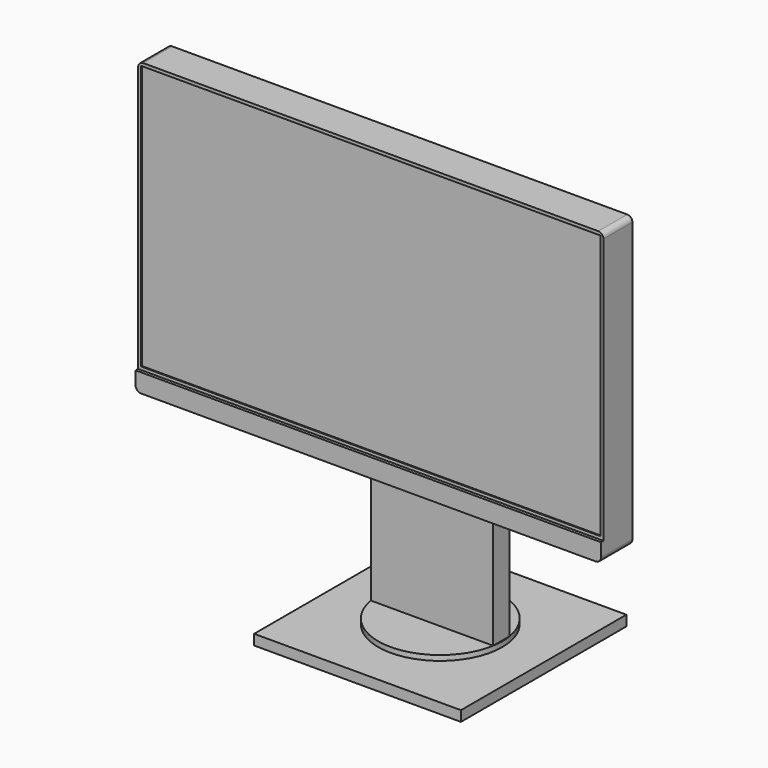
from build123d import *

# Parameters (mm, degrees)
F0_W      = 200
F0_H      = 200
F1_DEPTH  = 10
F2_R      = 60
F3_DEPTH  = 5
F4_W      = 118.321595662
F4_H      = 20
F5_DEPTH  = 320
F6_W      = 70
F6_H      = 30
F7_DEPTH  = 35
F9_DEPTH  = 4
F11_DEPTH = 35
F8_W      = 70
F8_H      = 30
F12_DEPTH = 16
F14_DEPTH = 3
F15_W     = 444
F15_H     = 256
F16_DEPTH = 1


with BuildPart() as f1:
    # F0 (on Top) → F1 (new body)
    with BuildSketch(Plane.XY):
        Rectangle(F0_W, F0_H)
    extrude(amount=F1_DEPTH)

    # F2 (on face) → F3 (join)
    with BuildSketch(Plane.XY.offset(10)):
        Circle(F2_R)
    extrude(amount=F3_DEPTH)

    # F4 (on face) → F5 (join)
    with BuildSketch(Plane.XY.offset(15)):
        Rectangle(F4_W, F4_H)
    extrude(amount=F5_DEPTH)

    # F6 (on face) → F7 (join)
    with BuildSketch(Plane.XZ.offset(10)):
        with Locations((0, 310)):
            Rectangle(F6_W, F6_H)
    extrude(amount=F7_DEPTH)

    # F8 (on face) → F9 (join)
    with BuildSketch(Plane.XZ.offset(45)):
        with BuildLine():
            Line((-60, 245), (60, 245))
            ThreePointArc((60, 245), (63.5355339059, 246.4644660941), (65, 250))
            Line((65, 250), (65, 370))
            ThreePointArc((65, 370), (63.5355339059, 373.5355339059), (60, 375))
            Line((60, 375), (-60, 375))
            ThreePointArc((-60, 375), (-63.5355339059, 373.5355339059), (-65, 370))
            Line((-65, 370), (-65, 250))
            ThreePointArc((-65, 250), (-63.5355339059, 246.4644660941), (-60, 245))
        make_face()
    extrude(amount=F9_DEPTH)


with BuildPart() as f11:
    # F10 (on face) → F11 (new body)
    with BuildSketch(Plane.XZ.offset(49)):
        with BuildLine():
            ThreePointArc((-225, 175.3447556496), (-223.5355339059, 171.8092217436), (-220, 170.3447556496))
            Line((-220, 170.3447556496), (220, 170.3447556496))
            ThreePointArc((220, 170.3447556496), (223.5355339059, 171.8092217436), (225, 175.3447556496))
            Line((225, 175.3447556496), (225, 445.3447556496))
            ThreePointArc((225, 445.3447556496), (223.5355339059, 448.8802895555), (220, 450.3447556496))
            Line((220, 450.3447556496), (-220, 450.3447556496))
            ThreePointArc((-220, 450.3447556496), (-223.5355339059, 448.8802895555), (-225, 445.3447556496))
            Line((-225, 445.3447556496), (-225, 175.3447556496))
        make_face()
    extrude(amount=F11_DEPTH)

    # F8 (on face) → F12 (cut)
    with BuildSketch(Plane.XZ.offset(45)):
        with BuildLine():
            Line((-60, 245), (60, 245))
            ThreePointArc((60, 245), (63.5355339059, 246.4644660941), (65, 250))
            Line((65, 250), (65, 370))
            ThreePointArc((65, 370), (63.5355339059, 373.5355339059), (60, 375))
            Line((60, 375), (-60, 375))
            ThreePointArc((-60, 375), (-63.5355339059, 373.5355339059), (-65, 370))
            Line((-65, 370), (-65, 250))
            ThreePointArc((-65, 250), (-63.5355339059, 246.4644660941), (-60, 245))
        make_face()
        with Locations((0, 310)):
            Rectangle(F8_W, F8_H, mode=Mode.SUBTRACT)
        with Locations((0, 310)):
            Rectangle(F8_W, F8_H)
    extrude(amount=F12_DEPTH, mode=Mode.SUBTRACT)

    # F13 (on face) → F14 (join)
    with BuildSketch(Plane.XZ.offset(84)):
        with BuildLine():
            Line((225, 188.3447556496), (-225, 188.3447556496))
            Line((-225, 188.3447556496), (-225, 175.3447556496))
            ThreePointArc((-225, 175.3447556496), (-223.5355339059, 171.8092217436), (-220, 170.3447556496))
            Line((-220, 170.3447556496), (220, 170.3447556496))
            ThreePointArc((220, 170.3447556496), (223.5355339059, 171.8092217436), (225, 175.3447556496))
            Line((225, 175.3447556496), (225, 188.3447556496))
        make_face()
    extrude(amount=F14_DEPTH)

    # F15 (on face) → F16 (cut)
    with BuildSketch(Plane.XZ.offset(84)):
        with Locations((0, 319.3447556496)):
            Rectangle(F15_W, F15_H)
    extrude(amount=-F16_DEPTH, mode=Mode.SUBTRACT)


solid = Compound([f1.part, f11.part])
